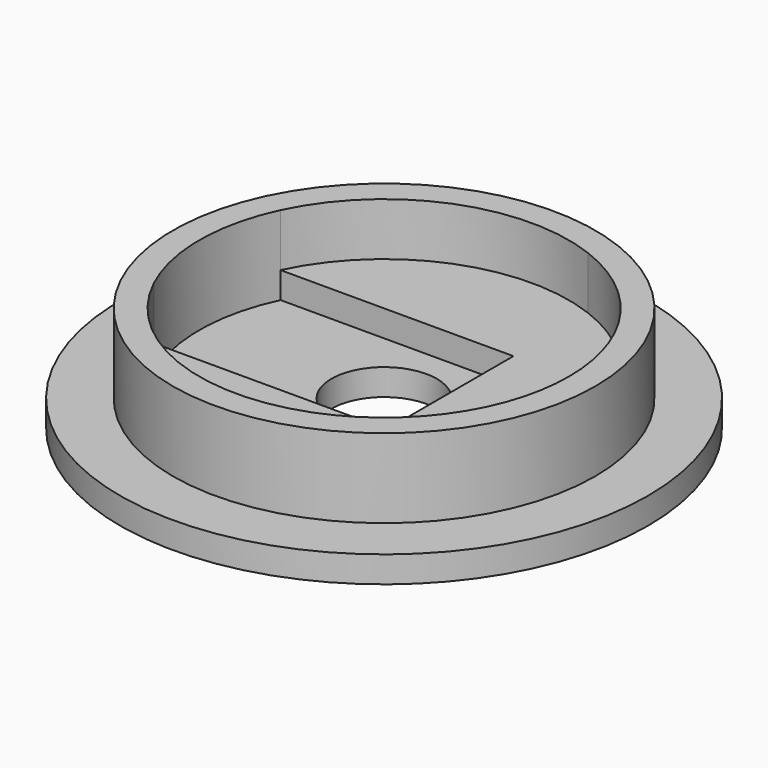
from build123d import *

# Parameters (mm, degrees)
F0_R     = 10
F0_R_2   = 8
F0_R_3   = 2
F1_DEPTH = 1
F2_DEPTH = 4
F3_DEPTH = 2


with BuildPart() as f1:
    # F0 (on Top) → F1 (new body)
    with BuildSketch(Plane.XY):
        Circle(F0_R)
        Circle(F0_R_2, mode=Mode.SUBTRACT)
        Circle(F0_R_2)
        with BuildLine():
            ThreePointArc((6.3245553203, 3), (6.8290514437, 1.5375488216), (7, 0))
            ThreePointArc((7, 0), (6.8290514437, -1.5375488216), (6.3245553203, -3))
            ThreePointArc((6.3245553203, -3), (4.7537534147, -5.1382709614), (2.5, -6.5383484153))
            ThreePointArc((2.5, -6.5383484153), (-2.6051455289, -6.4971699049), (-6.3245553203, -3))
            ThreePointArc((-6.3245553203, -3), (-7, 0), (-6.3245553203, 3))
            ThreePointArc((-6.3245553203, 3), (-2.6051455289, 6.4971699049), (2.5, 6.5383484153))
            ThreePointArc((2.5, 6.5383484153), (4.7537534147, 5.1382709614), (6.3245553203, 3))
        make_face(mode=Mode.SUBTRACT)
        with BuildLine():
            Line((2.5, -3), (2.5, 3))
            Line((2.5, 3), (-6.3245553203, 3))
            ThreePointArc((-6.3245553203, 3), (-7, 0), (-6.3245553203, -3))
            Line((-6.3245553203, -3), (2.5, -3))
        make_face()
        Circle(F0_R_3, mode=Mode.SUBTRACT)
        with BuildLine():
            Line((2.5, -3), (2.5, 3))
            Line((2.5, 3), (-6.3245553203, 3))
            ThreePointArc((-6.3245553203, 3), (-7, 0), (-6.3245553203, -3))
            Line((-6.3245553203, -3), (2.5, -3))
        make_face()
        Circle(F0_R_3, mode=Mode.SUBTRACT)
        with BuildLine():
            Line((2.5, 3), (2.5, 6.5383484153))
            ThreePointArc((2.5, 6.5383484153), (-2.6051455289, 6.4971699049), (-6.3245553203, 3))
            Line((-6.3245553203, 3), (2.5, 3))
        make_face()
        with BuildLine():
            ThreePointArc((-6.3245553203, -3), (-2.6051455289, -6.4971699049), (2.5, -6.5383484153))
            Line((2.5, -6.5383484153), (2.5, -3))
            Line((2.5, -3), (-6.3245553203, -3))
        make_face()
        with BuildLine():
            ThreePointArc((-6.3245553203, -3), (-2.6051455289, -6.4971699049), (2.5, -6.5383484153))
            Line((2.5, -6.5383484153), (2.5, -3))
            Line((2.5, -3), (-6.3245553203, -3))
        make_face()
        with BuildLine():
            ThreePointArc((6.3245553203, -3), (6.8290514437, -1.5375488216), (7, 0))
            ThreePointArc((7, 0), (6.8290514437, 1.5375488216), (6.3245553203, 3))
            Line((6.3245553203, 3), (2.5, 3))
            Line((2.5, 3), (2.5, -3))
            Line((2.5, -3), (6.3245553203, -3))
        make_face()
        with BuildLine():
            Line((2.5, 3), (6.3245553203, 3))
            ThreePointArc((6.3245553203, 3), (4.7537534147, 5.1382709614), (2.5, 6.5383484153))
            Line((2.5, 6.5383484153), (2.5, 3))
        make_face()
        with BuildLine():
            ThreePointArc((2.5, -6.5383484153), (4.7537534147, -5.1382709614), (6.3245553203, -3))
            Line((6.3245553203, -3), (2.5, -3))
            Line((2.5, -3), (2.5, -6.5383484153))
        make_face()
    extrude(amount=F1_DEPTH)

    # F0 (on Top) → F2 (join)
    with BuildSketch(Plane.XY):
        Circle(F0_R_2)
        with BuildLine():
            ThreePointArc((6.3245553203, 3), (6.8290514437, 1.5375488216), (7, 0))
            ThreePointArc((7, 0), (6.8290514437, -1.5375488216), (6.3245553203, -3))
            ThreePointArc((6.3245553203, -3), (4.7537534147, -5.1382709614), (2.5, -6.5383484153))
            ThreePointArc((2.5, -6.5383484153), (-2.6051455289, -6.4971699049), (-6.3245553203, -3))
            ThreePointArc((-6.3245553203, -3), (-7, 0), (-6.3245553203, 3))
            ThreePointArc((-6.3245553203, 3), (-2.6051455289, 6.4971699049), (2.5, 6.5383484153))
            ThreePointArc((2.5, 6.5383484153), (4.7537534147, 5.1382709614), (6.3245553203, 3))
        make_face(mode=Mode.SUBTRACT)
    extrude(amount=F2_DEPTH)

    # F0 (on Top) → F3 (join)
    with BuildSketch(Plane.XY):
        with BuildLine():
            Line((2.5, 3), (2.5, 6.5383484153))
            ThreePointArc((2.5, 6.5383484153), (-2.6051455289, 6.4971699049), (-6.3245553203, 3))
            Line((-6.3245553203, 3), (2.5, 3))
        make_face()
        with BuildLine():
            Line((2.5, 3), (6.3245553203, 3))
            ThreePointArc((6.3245553203, 3), (4.7537534147, 5.1382709614), (2.5, 6.5383484153))
            Line((2.5, 6.5383484153), (2.5, 3))
        make_face()
        with BuildLine():
            ThreePointArc((6.3245553203, -3), (6.8290514437, -1.5375488216), (7, 0))
            ThreePointArc((7, 0), (6.8290514437, 1.5375488216), (6.3245553203, 3))
            Line((6.3245553203, 3), (2.5, 3))
            Line((2.5, 3), (2.5, -3))
            Line((2.5, -3), (6.3245553203, -3))
        make_face()
        with BuildLine():
            ThreePointArc((2.5, -6.5383484153), (4.7537534147, -5.1382709614), (6.3245553203, -3))
            Line((6.3245553203, -3), (2.5, -3))
            Line((2.5, -3), (2.5, -6.5383484153))
        make_face()
        with BuildLine():
            ThreePointArc((-6.3245553203, -3), (-2.6051455289, -6.4971699049), (2.5, -6.5383484153))
            Line((2.5, -6.5383484153), (2.5, -3))
            Line((2.5, -3), (-6.3245553203, -3))
        make_face()
    extrude(amount=F3_DEPTH)


solid = f1.part
